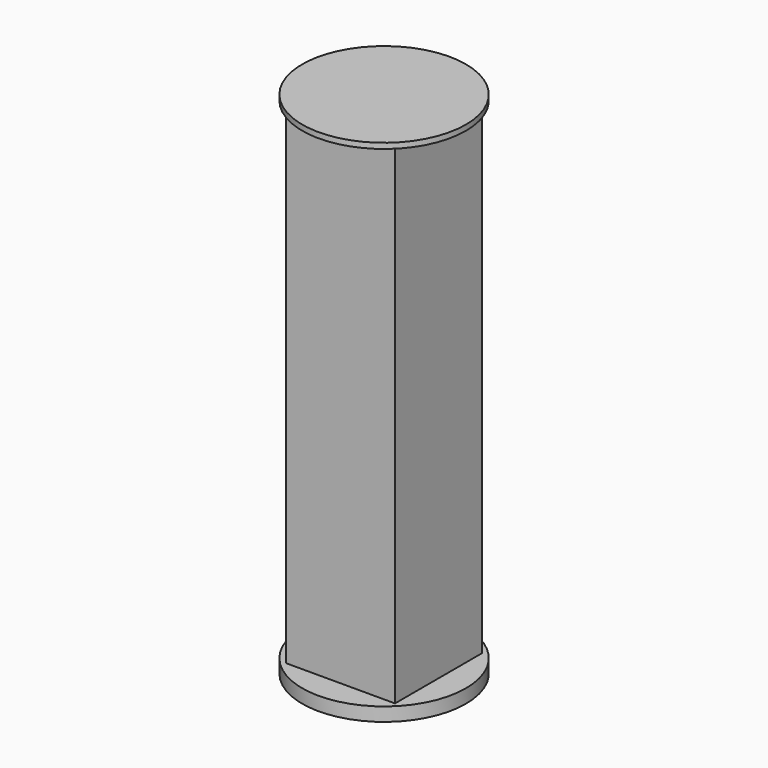
from build123d import *

# Parameters (mm, degrees)
F1_START = 1850
F0_R     = 300
F0_W     = 400
F0_H     = 400
F1_DEPTH = 20
F2_DEPTH = 1850
F3_DEPTH = 50


with BuildPart() as f1:
    # F0 (on Top) → F1 (new body)
    with BuildSketch(Plane.XY.offset(F1_START)):
        Circle(F0_R)
        Rectangle(F0_W, F0_H, mode=Mode.SUBTRACT)
        Rectangle(F0_W, F0_H)
    extrude(amount=F1_DEPTH)

    # F0 (on Top) → F2 (join)
    with BuildSketch(Plane.XY):
        Rectangle(F0_W, F0_H)
    extrude(amount=F2_DEPTH)

    # F0 (on Top) → F3 (join)
    with BuildSketch(Plane.XY):
        Circle(F0_R)
        Rectangle(F0_W, F0_H, mode=Mode.SUBTRACT)
    extrude(amount=F3_DEPTH)


solid = f1.part
